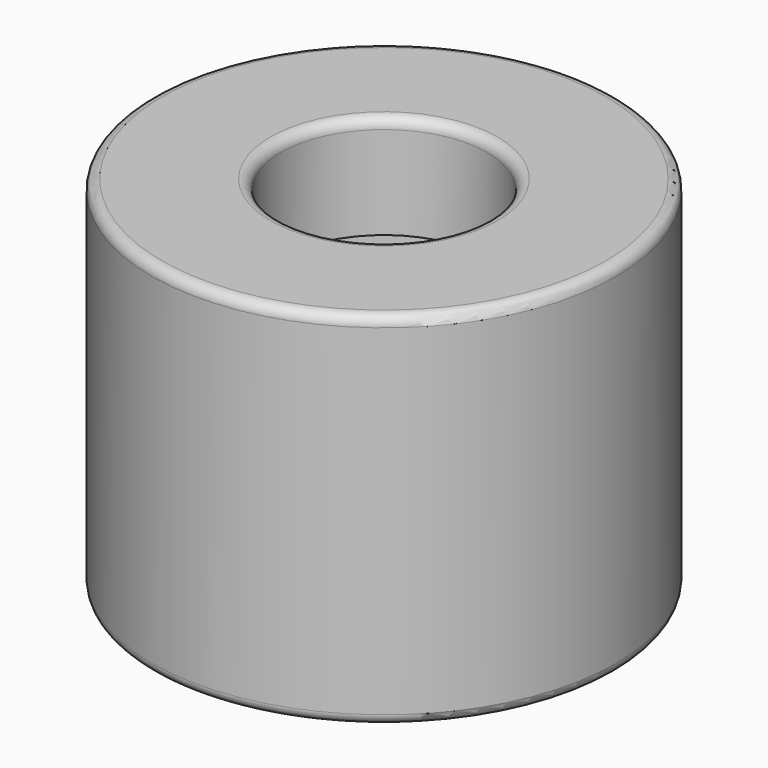
from build123d import *

# Parameters (mm, degrees)
F0_R     = 4.5
F0_R_2   = 3.575
F1_DEPTH = 5
F4_R     = 4.5
F4_R_2   = 2
F5_DEPTH = 2
F6_R     = 0.2


with BuildPart() as f1:
    # F0 (on Top) → F1 (new body)
    with BuildSketch(Plane.XY):
        Circle(F0_R)
        Circle(F0_R_2, mode=Mode.SUBTRACT)
    extrude(amount=F1_DEPTH)

    # F2 (on Front) → F3 (revolve, cut)
    with BuildSketch(Plane.XZ):
        with BuildLine():
            Line((0, 12), (0, 22))
            ThreePointArc((0, 22), (-5, 17), (0, 12))
        make_face()
    revolve(axis=Axis((0, 0, 14.014009), (0, 0, 1)), mode=Mode.SUBTRACT)

    # F4 (on face) → F5 (join)
    with BuildSketch(Plane.XY.offset(5)):
        Circle(F4_R)
        Circle(F4_R_2, mode=Mode.SUBTRACT)
    extrude(amount=F5_DEPTH)

    # F6
    f6_edges = [f1.edges().sort_by_distance(p)[0] for p in [
        (-4.5, 0, 0),
        (4.5, 0, 3.5),
        (-4.5, 0, 7),
        (-2, 0, 7),
        (-3.575, 0, 0),
    ]]
    fillet(f6_edges, radius=F6_R)


solid = f1.part
